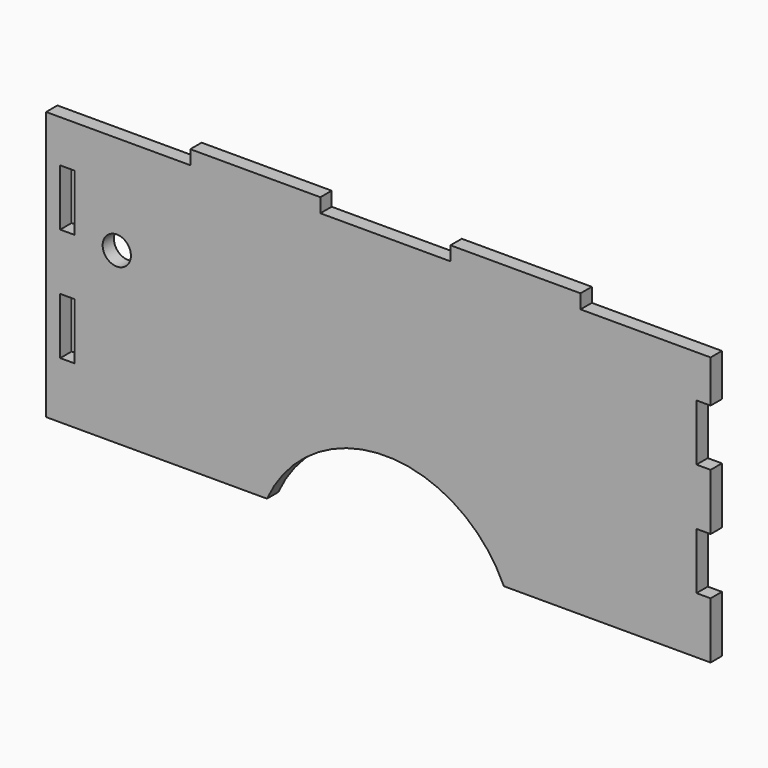
from build123d import *

# Parameters (mm, degrees)
F0_R     = 5
F0_W     = 5
F0_H     = 20
F1_DEPTH = 5


with BuildPart() as f1:
    # F0 (on Front) → F1 (new body)
    with BuildSketch(Plane.XZ):
        with BuildLine():
            Line((41.89272, -49.099528), (110, -49.099528))
            Line((110, -49.099528), (115, -49.099528))
            Line((115, -49.099528), (115, -29.099528))
            Line((115, -29.099528), (110, -29.099528))
            Line((110, -29.099528), (110, -9.099528))
            Line((110, -9.099528), (115, -9.099528))
            Line((115, -9.099528), (115, 10.900472))
            Line((115, 10.900472), (110, 10.900472))
            Line((110, 10.900472), (110, 30.900472))
            Line((110, 30.900472), (115, 30.900472))
            Line((115, 30.900472), (115, 45.900472))
            Line((115, 45.900472), (69, 45.900472))
            Line((69, 45.900472), (69, 50.900472))
            Line((69, 50.900472), (23, 50.900472))
            Line((23, 50.900472), (23, 45.900472))
            Line((23, 45.900472), (-23, 45.900472))
            Line((-23, 45.900472), (-23, 50.900472))
            Line((-23, 50.900472), (-69, 50.900472))
            Line((-69, 50.900472), (-69, 45.900472))
            Line((-69, 45.900472), (-115, 45.900472))
            Line((-115, 45.900472), (-120, 45.900472))
            Line((-120, 45.900472), (-120, -49.099528))
            Line((-120, -49.099528), (-115, -49.099528))
            Line((-115, -49.099528), (-110, -49.099528))
            Line((-110, -49.099528), (-41.89272, -49.099528))
            ThreePointArc((-41.89272, -49.099528), (0, -22.099528), (41.89272, -49.099528))
        make_face()
        Polygon((-110, -29.099528), (-115, -29.099528), (-115, -9.099528), (-110, -9.099528), (-110, -19.099528), align=None, mode=Mode.SUBTRACT)
        with Locations((-95, 10.900472)):
            Circle(F0_R, mode=Mode.SUBTRACT)
        with Locations((-112.5, 20.900472)):
            Rectangle(F0_W, F0_H, mode=Mode.SUBTRACT)
    extrude(amount=F1_DEPTH)


solid = f1.part
